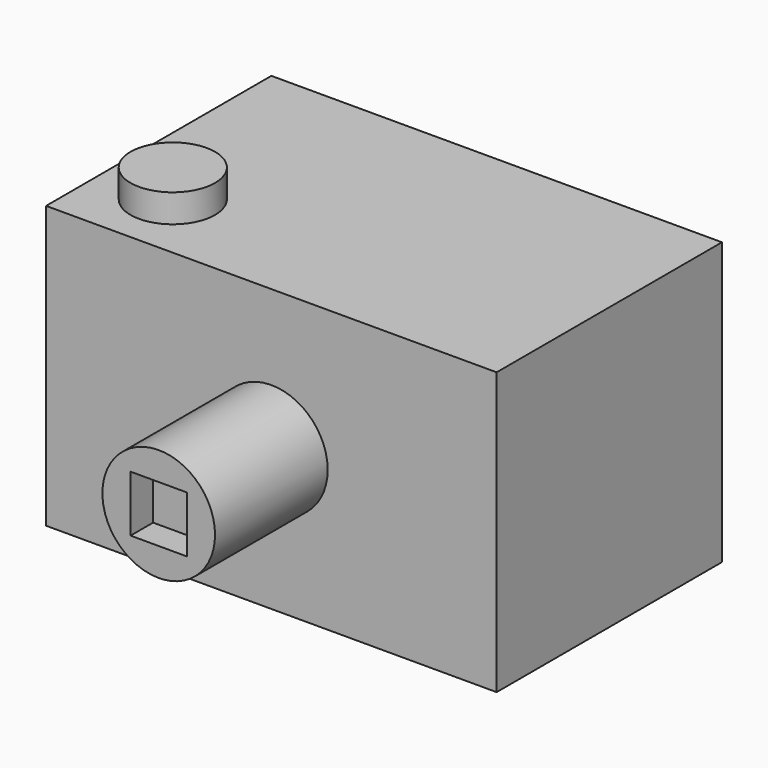
from build123d import *

# Parameters (mm, degrees)
F0_W     = 80
F0_H     = 50
F1_DEPTH = 50
F2_R     = 10
F3_DEPTH = 25
F4_W     = 10
F4_H     = 10
F5_DEPTH = 5
F6_R     = 7.5
F7_DEPTH = 5


with BuildPart() as f1:
    # F0 (on Top) → F1 (new body)
    with BuildSketch(Plane.XY):
        Rectangle(F0_W, F0_H)
    extrude(amount=F1_DEPTH)

    # F2 (on face) → F3 (join)
    with BuildSketch(Plane.XZ.offset(25)):
        with Locations((0, 25)):
            Circle(F2_R)
    extrude(amount=F3_DEPTH)

    # F4 (on face) → F5 (cut)
    with BuildSketch(Plane.XZ.offset(50)):
        with Locations((0, 25)):
            Rectangle(F4_W, F4_H)
    extrude(amount=-F5_DEPTH, mode=Mode.SUBTRACT)

    # F6 (on face) → F7 (join)
    with BuildSketch(Plane.XY.offset(50)):
        with Locations((-27.5, -12.5)):
            Circle(F6_R)
    extrude(amount=F7_DEPTH)


solid = f1.part
